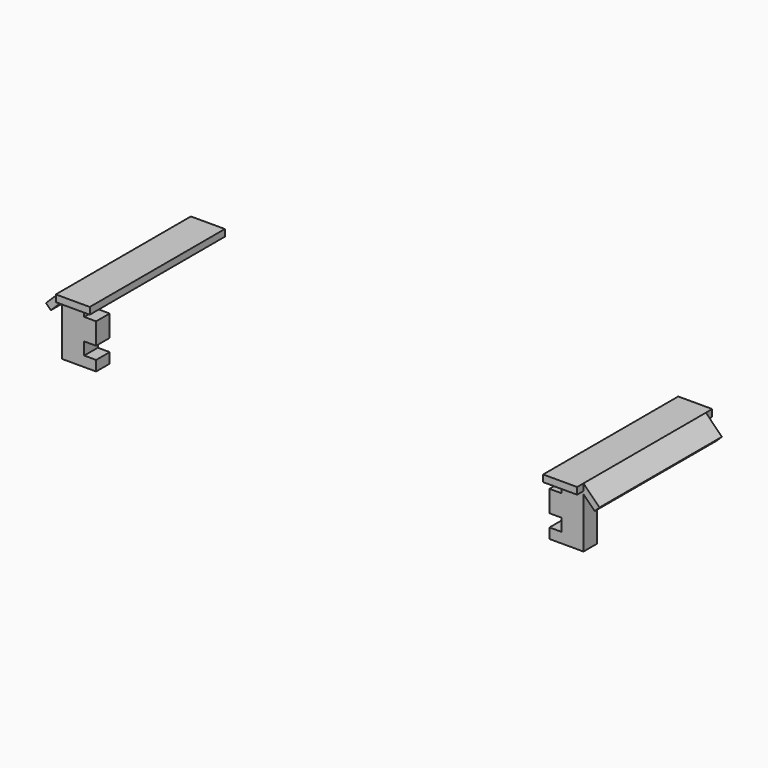
from build123d import *

# Parameters (mm, degrees)
BOX004_W               = 2
BOX004_H               = 13.5
BOX004_DEPTH           = 0.6
BOX004_PLACEMENT_ANGLE = 135
BOX006_W               = 3
BOX006_H               = 1.5
BOX006_DEPTH           = 1.9
BOX007_W               = 1.95
BOX007_H               = 1.5
BOX007_DEPTH           = 1.1
BOX008_W               = 3
BOX008_H               = 1.5
BOX008_DEPTH           = 0.9
BOX005_W               = 1.95
BOX005_H               = 1.5
BOX005_DEPTH           = 0.8
BOX003_W               = 3
BOX003_H               = 14.9
BOX003_DEPTH           = 0.6


with BuildPart() as boardsideoutline:
    # Box004 → Box004 (new body)
    with BuildSketch(Plane.XY):
        with Locations((1, 6.75)):
            Rectangle(BOX004_W, BOX004_H)
    extrude(amount=BOX004_DEPTH)


with BuildPart() as boardsideoutline_1:
    # Box004 placement: moved
    add(boardsideoutline.part.moved(Location((-2, 0, 4.3))).rotate(Axis((-2, 0, 4.3), (0, 1, 0)), BOX004_PLACEMENT_ANGLE))


with BuildPart() as coverboardinnerholder002:
    # Box006 → Box006 (new body)
    with BuildSketch(Plane(origin=(-2, 0, 1), x_dir=(1, 0, 0), z_dir=(0, 0, 1))):
        with Locations((1.5, 0.75)):
            Rectangle(BOX006_W, BOX006_H)
    extrude(amount=BOX006_DEPTH)


with BuildPart() as coverboardinnerholder003:
    # Box007 → Box007 (new body)
    with BuildSketch(Plane(origin=(-2, 0, -0.1), x_dir=(1, 0, 0), z_dir=(0, 0, 1))):
        with Locations((0.975, 0.75)):
            Rectangle(BOX007_W, BOX007_H)
    extrude(amount=BOX007_DEPTH)


with BuildPart() as coverboardinnerholder004:
    # Box008 → Box008 (new body)
    with BuildSketch(Plane(origin=(-2, 0, -1), x_dir=(1, 0, 0), z_dir=(0, 0, 1))):
        with Locations((1.5, 0.75)):
            Rectangle(BOX008_W, BOX008_H)
    extrude(amount=BOX008_DEPTH)


with BuildPart() as boardinnerholder:
    # Box005 → Box005 (new body)
    with BuildSketch(Plane(origin=(-2, 0, 2.9), x_dir=(1, 0, 0), z_dir=(0, 0, 1))):
        with Locations((0.975, 0.75)):
            Rectangle(BOX005_W, BOX005_H)
    extrude(amount=BOX005_DEPTH)

    # Fusion: union coverBoardInnerHolder002, coverBoardInnerHolder003, coverBoardInnerHolder004
    add(coverboardinnerholder002.part)
    add(coverboardinnerholder003.part)
    add(coverboardinnerholder004.part)


with BuildPart() as obj1:
    # Box003 → Box003 (new body)
    with BuildSketch(Plane(origin=(-2, -0.7, 3.7), x_dir=(1, 0, 0), z_dir=(0, 0, 1))):
        with Locations((1.5, 7.45)):
            Rectangle(BOX003_W, BOX003_H)
    extrude(amount=BOX003_DEPTH)

    # Fusion001: union boardSideOutline, boardInnerHolder
    add(boardsideoutline_1.part)
    add(boardinnerholder.part)


with BuildPart() as part_mirroring:
    # Part__Mirroring: instance of obj1
    add(obj1.part.mirror(Plane(origin=(0, 6.75, 1.6), x_dir=(0, -1, 0), z_dir=(1, 0, 0))))


with BuildPart() as part_mirroring_1:
    # Part__Mirroring placement: moved
    add(part_mirroring.part.moved(Location((42, 0, 0))))


with BuildPart() as fusion002:
    # Fusion002 base: copy of obj1
    add(obj1.part)

    # Fusion002: union Part__Mirroring
    add(part_mirroring_1.part)


solid = fusion002.part
